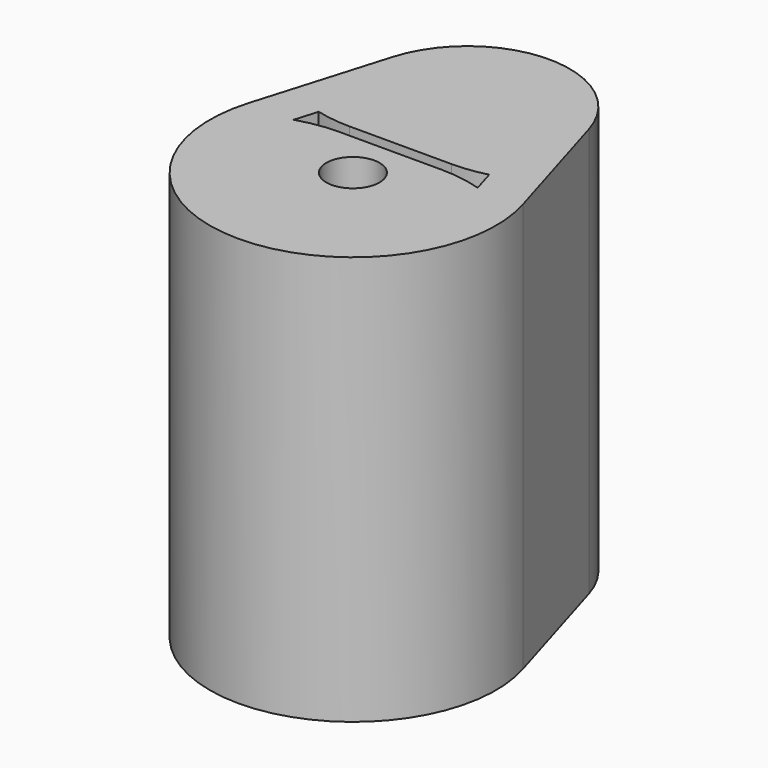
from build123d import *

# Parameters (mm, degrees)
SKETCH_R     = 0.65
PAD_DEPTH    = 10
POCKET_DEPTH = 10.001


with BuildPart() as part:
    # Sketch → Pad (new body)
    with BuildSketch(Plane.XY):
        with BuildLine():
            ThreePointArc((-32.05582, 12.757822), (-28.701718, 8.257822), (-25.347616, 12.757822))
            Line((-25.347616, 12.757822), (-26.305931, 15.972107))
            ThreePointArc((-26.305931, 15.972107), (-28.701718, 17.757822), (-31.097506, 15.972107))
            Line((-32.05582, 12.757822), (-31.097506, 15.972107))
        make_face()
        with Locations((-28.701718, 11.757822)):
            Circle(SKETCH_R, mode=Mode.SUBTRACT)
    extrude(amount=PAD_DEPTH)

    # Sketch001 (on Face7 of Pad) → Pocket (cut, through all)
    with BuildSketch(Plane.XY.offset(10)):
        with BuildLine():
            ThreePointArc((-30.785044, 13.316866), (-30.37172, 13.23769), (-29.951718, 13.211157))
            Line((-29.951718, 13.211157), (-27.451718, 13.211157))
            ThreePointArc((-27.451718, 13.211157), (-27.031717, 13.23769), (-26.618393, 13.316866))
            Line((-26.451718, 12.757822), (-26.618393, 13.316866))
            ThreePointArc((-26.451718, 12.757822), (-26.945875, 12.8726), (-27.451718, 12.911157))
            Line((-27.451718, 12.911157), (-29.951718, 12.911157))
            ThreePointArc((-29.951718, 12.911157), (-30.457562, 12.8726), (-30.951718, 12.757822))
            Line((-30.951718, 12.757822), (-30.785044, 13.316866))
        make_face()
    extrude(amount=-POCKET_DEPTH, mode=Mode.SUBTRACT)


solid = part.part
